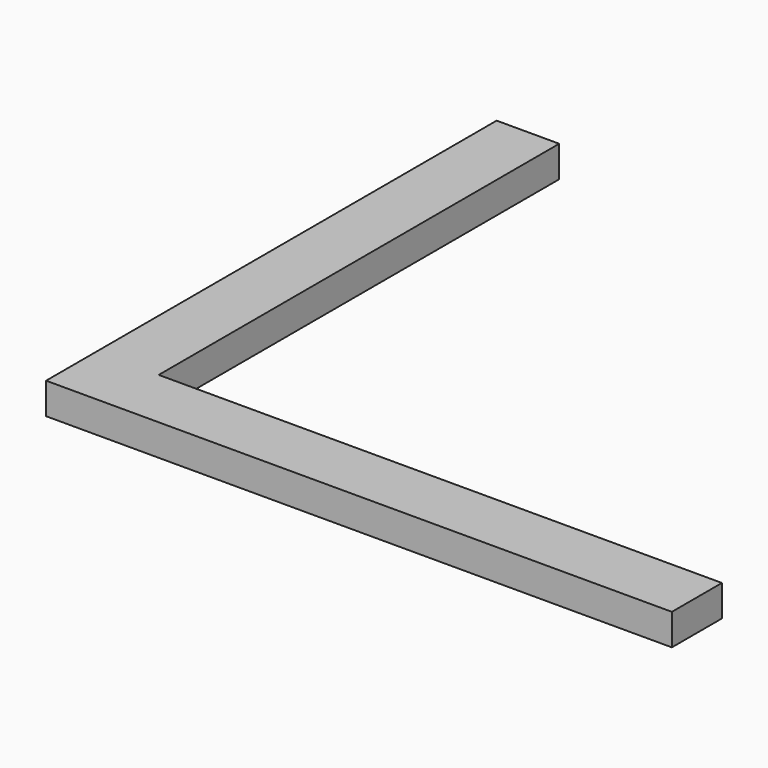
from build123d import *

# Parameters (mm, degrees)
F0_W     = 101.6
F0_H     = 50.8
F1_DEPTH = 457.2
F2_W     = 101.6
F2_H     = 50.8
F3_DEPTH = 914.4


with BuildPart() as f1:
    # F0 (on Front) → F1 (new body, symmetric)
    with BuildSketch(Plane.XZ):
        Rectangle(F0_W, F0_H)
    extrude(amount=F1_DEPTH, both=True)

    # F2 (on face) → F3 (join)
    with BuildSketch(Plane.YZ.offset(50.8)):
        with Locations((-406.4, 0)):
            Rectangle(F2_W, F2_H)
    extrude(amount=F3_DEPTH)


solid = f1.part
